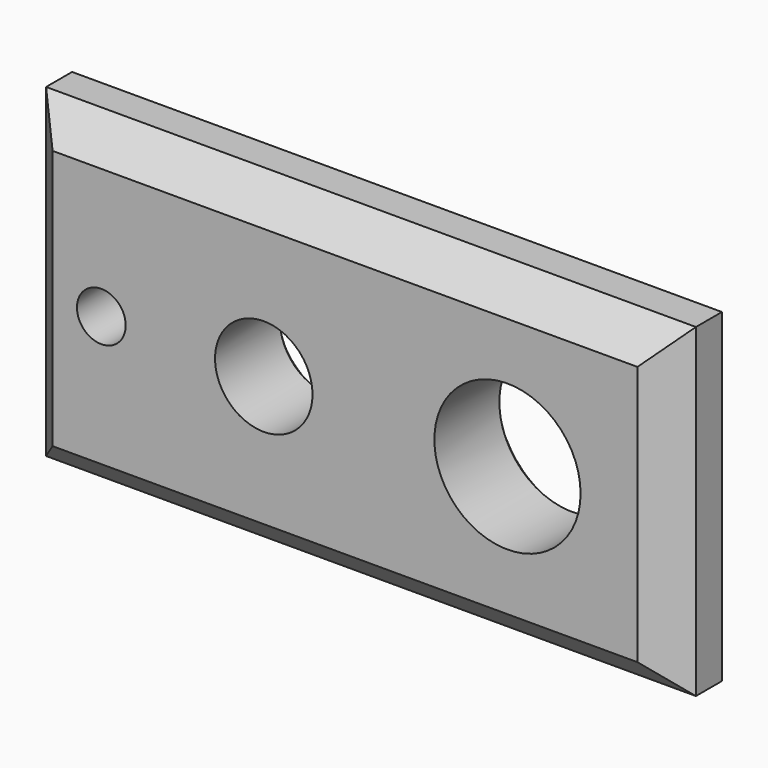
from build123d import *

# Parameters (mm, degrees)
F0_W     = 200
F0_H     = 100
F0_R     = 7.5
F0_R_2   = 15
F0_R_3   = 22.5
F1_DEPTH = 30
F2_SIZE2 = 5
F2_SIZE  = 5
F3_SIZE2 = 10
F3_SIZE  = 10


with BuildPart() as f1:
    # F0 (on Front) → F1 (new body)
    with BuildSketch(Plane.XZ):
        Rectangle(F0_W, F0_H)
        with Locations((-75, 0)):
            Circle(F0_R, mode=Mode.SUBTRACT)
        with Locations((-25, 0)):
            Circle(F0_R_2, mode=Mode.SUBTRACT)
        with Locations((50, 0)):
            Circle(F0_R_3, mode=Mode.SUBTRACT)
    extrude(amount=F1_DEPTH)

    # F2
    f2_edges = [f1.edges().sort_by_distance(p)[0] for p in [
        (-82.5, 0, 0),
        (-40, 0, 0),
        (27.5, 0, 0),
    ]]
    chamfer(f2_edges, length=F2_SIZE, length2=F2_SIZE2)

    # F3
    f3_edges = [f1.edges().sort_by_distance(p)[0] for p in [
        (0, -30, -50),
        (-100, -30, 0),
        (0, -30, 50),
        (100, -30, 0),
        (100, 0, 0),
        (0, 0, 50),
        (-100, 0, 0),
        (0, 0, -50),
    ]]
    chamfer(f3_edges, length=F3_SIZE, length2=F3_SIZE2)


solid = f1.part
